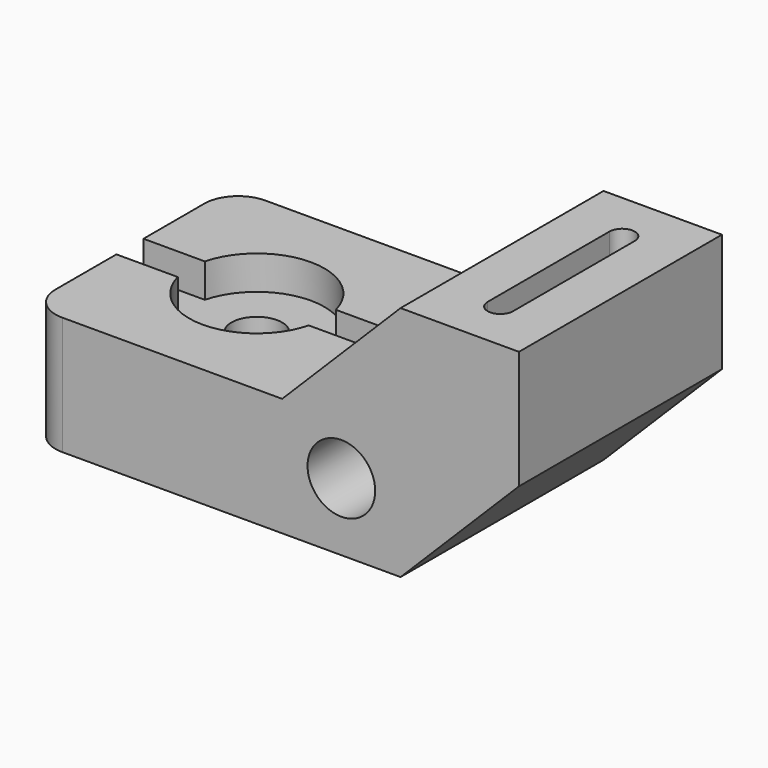
from build123d import *

# Parameters (mm, degrees)
F1_DEPTH       = 76.2
F3_DEPTH       = 27.94
F4_R           = 10.16
F5_DEPTH       = 76.201
F7_DEPTH       = 10.16
F8_D           = 15.24
F8_CBORE_D     = 40.64
F8_CBORE_DEPTH = 10.16
F9_R           = 10.16


with BuildPart() as f1:
    # F0 (on Front) → F1 (new body)
    with BuildSketch(Plane.XZ):
        Polygon((0, 35.56), (0, 0), (111.76, 0), (147.32, 35.56), (147.32, 71.12), (111.76, 71.12), (76.2, 35.56), align=None)
    extrude(amount=-F1_DEPTH)

    # F2 (on face) → F3 (cut)
    with BuildSketch(Plane.XY.offset(71.12)):
        with BuildLine():
            ThreePointArc((125.73, 15.24), (129.54, 11.43), (133.35, 15.24))
            Line((133.35, 15.24), (133.35, 60.96))
            ThreePointArc((133.35, 60.96), (129.54, 64.77), (125.73, 60.96))
            Line((125.73, 60.96), (125.73, 15.24))
        make_face()
    extrude(amount=-F3_DEPTH, mode=Mode.SUBTRACT)

    # F4 (on face) → F5 (cut, through all)
    with BuildSketch(Plane.XZ):
        with Locations((93.98, 20.32)):
            Circle(F4_R)
    extrude(amount=-F5_DEPTH, mode=Mode.SUBTRACT)

    # F6 (on face) → F7 (cut)
    with BuildSketch(Plane.XY.offset(35.56)):
        with BuildLine():
            ThreePointArc((18.425245, 33.02), (17.78, 38.1), (18.425245, 43.18))
            Line((18.425245, 43.18), (0, 43.18))
            Line((0, 43.18), (0, 33.02))
            Line((0, 33.02), (18.425245, 33.02))
        make_face()
        with BuildLine():
            ThreePointArc((57.774755, 43.18), (58.258043, 40.660407), (58.42, 38.1))
            ThreePointArc((58.42, 38.1), (58.258043, 35.539593), (57.774755, 33.02))
            Line((57.774755, 33.02), (76.2, 33.02))
            Line((76.2, 33.02), (76.2, 43.18))
            Line((76.2, 43.18), (57.774755, 43.18))
        make_face()
    extrude(amount=-F7_DEPTH, mode=Mode.SUBTRACT)

    # F8 (through all)
    with Locations(Plane.XY.offset(35.56)):
        with Locations((38.1, 38.1)):
            CounterBoreHole(F8_D / 2, F8_CBORE_D / 2, F8_CBORE_DEPTH)

    # F9
    f9_edges = [f1.edges().sort_by_distance(p)[0] for p in [
        (0, 0, 17.78),
        (0, 76.2, 17.78),
    ]]
    fillet(f9_edges, radius=F9_R)


solid = f1.part
